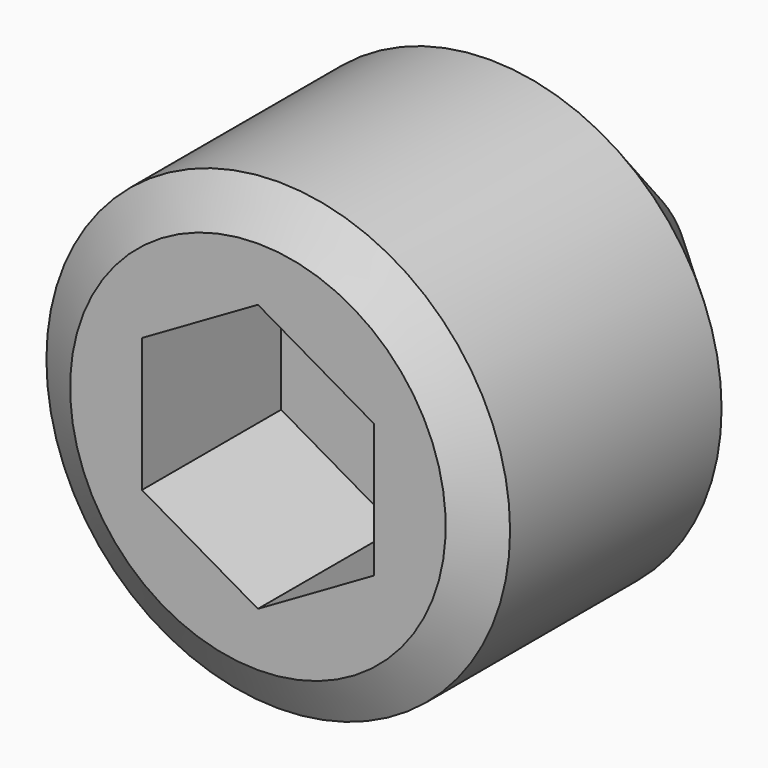
from build123d import *

# Parameters (mm, degrees)
POCKET_DEPTH = 1.5


with BuildPart() as part:
    # Sketch → Revolution (revolve)
    with BuildSketch(Plane.YZ):
        Polygon((0, 0), (0, 1.62), (0.219393, 2), (2.5, 2), (4, 0.5), (4, 0), align=None)
    revolve(axis=Axis((0, 0, 0), (0, 1, 0)))

    # Sketch001 → Pocket (cut)
    with BuildSketch(Plane(origin=(0, 0, 0), x_dir=(0, 0, -1), z_dir=(0, -1, 0))):
        Polygon((-0.57735, -1), (0.57735, -1), (1.154701, 0), (0.57735, 1), (-0.57735, 1), (-1.154701, 0), align=None)
    extrude(amount=-POCKET_DEPTH, mode=Mode.SUBTRACT)


solid = part.part
